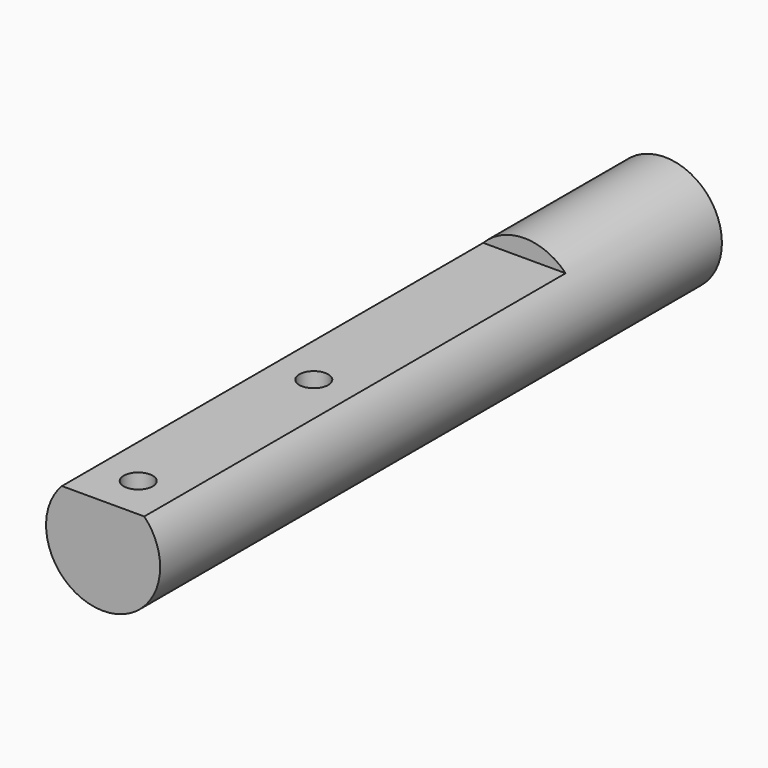
from build123d import *

# Parameters (mm, degrees)
F0_R     = 6.5
F1_DEPTH = 80
F3_W     = 34.3981292099
F3_H     = 76.4677333832
F4_DEPTH = 2
F6_D     = 3.3


with BuildPart() as f1:
    # F0 (on Front) → F1 (new body)
    with BuildSketch(Plane.XZ):
        Circle(F0_R)
    extrude(amount=F1_DEPTH)

    # F3 (on offset) → F4 (cut)
    with BuildSketch(Plane.XY.offset(6.5)):
        with Locations((-0.0220080838, -58.2338666916)):
            Rectangle(F3_W, F3_H)
    extrude(amount=-F4_DEPTH, mode=Mode.SUBTRACT)

    # F6 (through all)
    with Locations(Plane.XY.offset(4.5)):
        with Locations((0, -50), (0, -75)):
            Hole(F6_D / 2)


solid = f1.part
